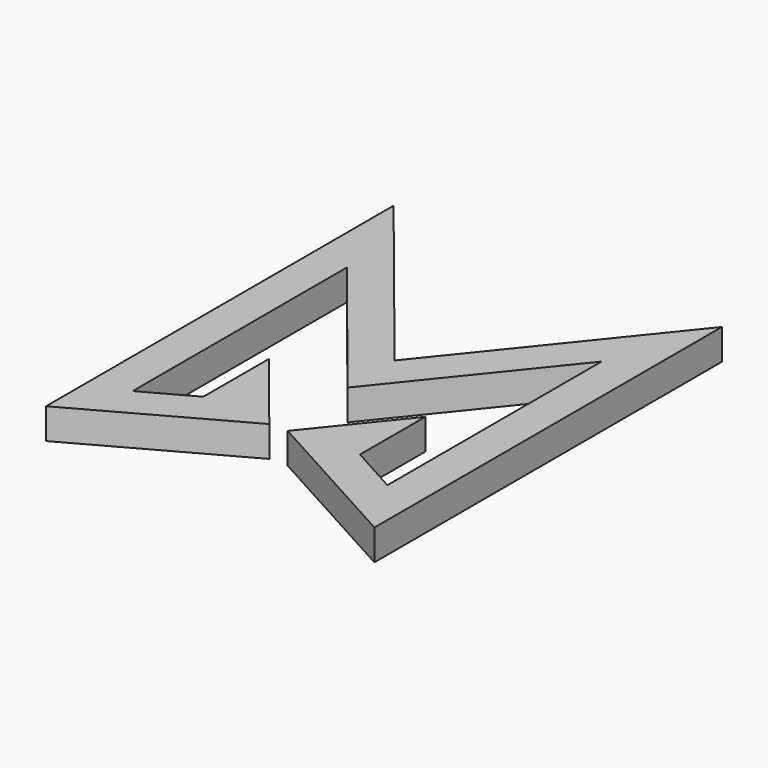
from build123d import *

# Parameters (mm, degrees)
F1_DEPTH = 12.7


with BuildPart() as f1:
    # F0 (on Top) → F1 (new body)
    with BuildSketch(Plane.XY):
        Polygon((-32.40441, -0.251778), (-32.40441, -34.118444), (-52.72441, -45.304922), (-52.72441, 65.497549), (0, 0), (52.72441, 65.497549), (52.72441, -45.304922), (32.40441, -34.118444), (32.40441, -0.251778), (3.81, -35.773536), (67.96441, -71.091543), (67.96441, 108.733561), (0, 24.303934), (-67.96441, 108.733561), (-67.96441, -71.091543), (-3.81, -35.773536), align=None)
    extrude(amount=F1_DEPTH)


solid = f1.part
